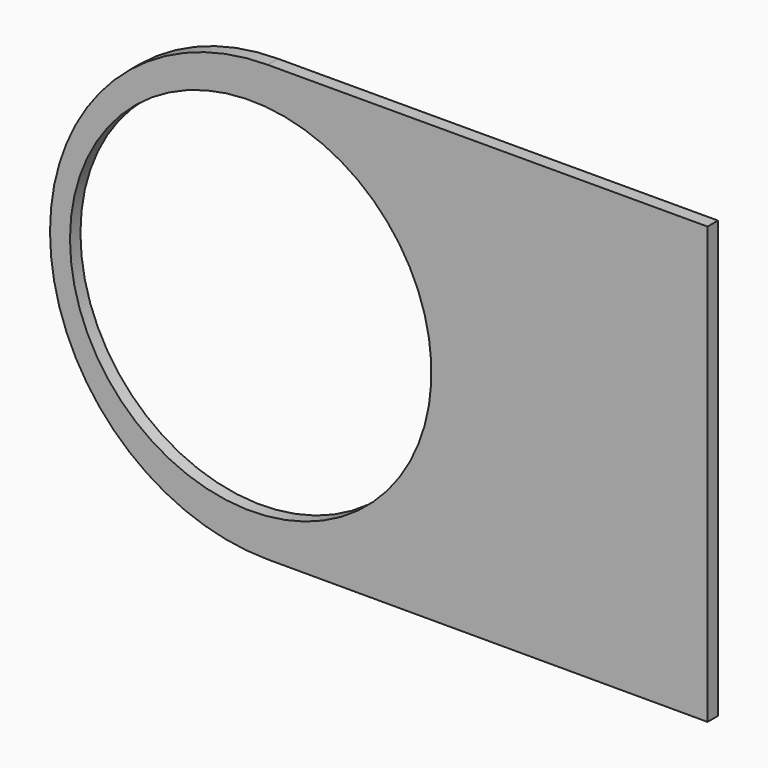
from build123d import *

# Parameters (mm, degrees)
F2_DEPTH = 3
F3_D     = 83


with BuildPart() as f2:
    # F0 (on Front) → F2 (new body)
    with BuildSketch(Plane.XZ):
        with BuildLine():
            Line((-21.7263168246, 58.1104420125), (-122.7263168246, 57.9687414691))
            ThreePointArc((-122.7263168246, 57.9687414691), (-172.7263168246, 7.9687414691), (-122.7263168246, -42.0312585309))
            Line((-122.7263168246, -42.0312585309), (-21.7263168246, -42.0312585309))
            Line((-21.7263168246, -42.0312585309), (-21.7263168246, 57.9687414691))
            Line((-21.7263168246, 57.9687414691), (-21.7263168246, 57.9720512033))
            Line((-21.7263168246, 57.9720512033), (-21.7263168246, 58.1104420125))
        make_face()
    extrude(amount=F2_DEPTH)

    # F3 (through all)
    with Locations(Plane(origin=(0, 0, 0), x_dir=(1, 0, 0), z_dir=(0, 1, 0))):
        with Locations((-126.6402751207, -7.990530692)):
            Hole(F3_D / 2)


solid = f2.part
